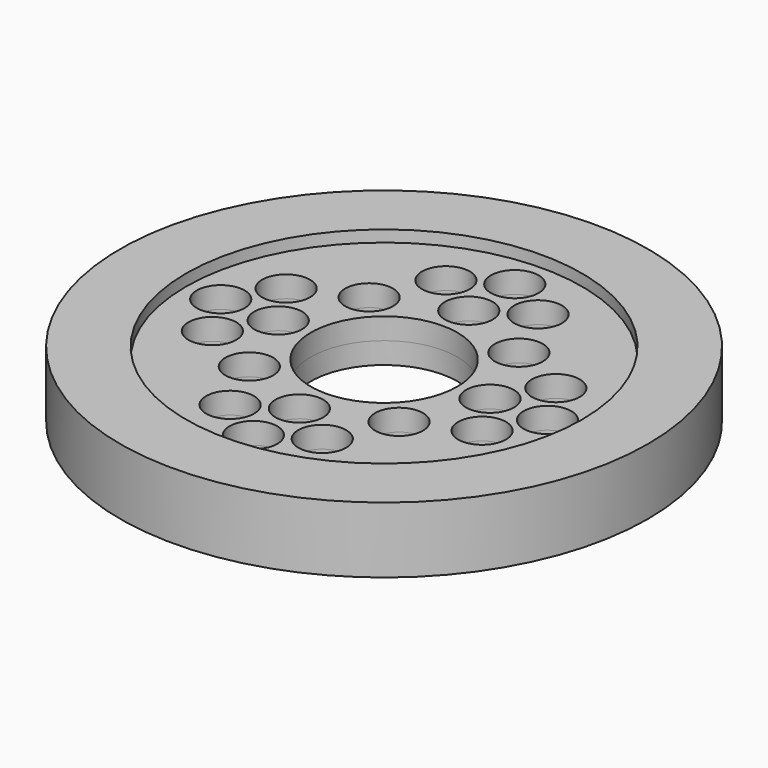
from build123d import *

# Parameters (mm, degrees)
F0_R          = 30
F0_R_2        = 3.625
F0_R_3        = 11.1
F2_DEPTH      = 3.25
F2_DEPTH_BACK = 3.25
F1_R          = 40
F1_R_2        = 30
F3_DEPTH      = 5
F3_DEPTH_BACK = 5


with BuildPart() as f2:
    # F0 (on Top) → F2 (new body, two sides)
    with BuildSketch(Plane.XY) as f2_sk:
        Circle(F0_R)
        with Locations((-6.983624, -20.439105)):
            Circle(F0_R_2, mode=Mode.SUBTRACT)
        with Locations((-20.439105, -6.983624)):
            Circle(F0_R_2, mode=Mode.SUBTRACT)
        with Locations((-11.348298, -11.348298)):
            Circle(F0_R_2, mode=Mode.SUBTRACT)
        with Locations((0, -24.759192)):
            Circle(F0_R_2, mode=Mode.SUBTRACT)
        with Locations((6.983624, -20.439105)):
            Circle(F0_R_2, mode=Mode.SUBTRACT)
        with Locations((0, -16.048918)):
            Circle(F0_R_2, mode=Mode.SUBTRACT)
        with Locations((11.348298, -11.348298)):
            Circle(F0_R_2, mode=Mode.SUBTRACT)
        with Locations((20.439105, -6.983624)):
            Circle(F0_R_2, mode=Mode.SUBTRACT)
        with Locations((-24.759192, 0)):
            Circle(F0_R_2, mode=Mode.SUBTRACT)
        with Locations((-16.048918, 0)):
            Circle(F0_R_2, mode=Mode.SUBTRACT)
        with Locations((-20.439105, 6.983624)):
            Circle(F0_R_2, mode=Mode.SUBTRACT)
        with Locations((-11.348298, 11.348298)):
            Circle(F0_R_2, mode=Mode.SUBTRACT)
        with Locations((-6.983624, 20.439105)):
            Circle(F0_R_2, mode=Mode.SUBTRACT)
        Circle(F0_R_3, mode=Mode.SUBTRACT)
        with Locations((11.348298, 11.348298)):
            Circle(F0_R_2, mode=Mode.SUBTRACT)
        with Locations((16.048918, 0)):
            Circle(F0_R_2, mode=Mode.SUBTRACT)
        with Locations((20.439105, 6.983624)):
            Circle(F0_R_2, mode=Mode.SUBTRACT)
        with Locations((24.759192, 0)):
            Circle(F0_R_2, mode=Mode.SUBTRACT)
        with Locations((0, 16.048918)):
            Circle(F0_R_2, mode=Mode.SUBTRACT)
        with Locations((6.983624, 20.439105)):
            Circle(F0_R_2, mode=Mode.SUBTRACT)
        with Locations((0, 24.759192)):
            Circle(F0_R_2, mode=Mode.SUBTRACT)
    extrude(amount=F2_DEPTH)
    extrude(f2_sk.sketch, amount=-F2_DEPTH_BACK)

    # F1 (on Top) → F3 (join, two sides)
    with BuildSketch(Plane.XY) as f3_sk:
        Circle(F1_R)
        Circle(F1_R_2, mode=Mode.SUBTRACT)
    extrude(amount=F3_DEPTH)
    extrude(f3_sk.sketch, amount=-F3_DEPTH_BACK)


solid = f2.part
